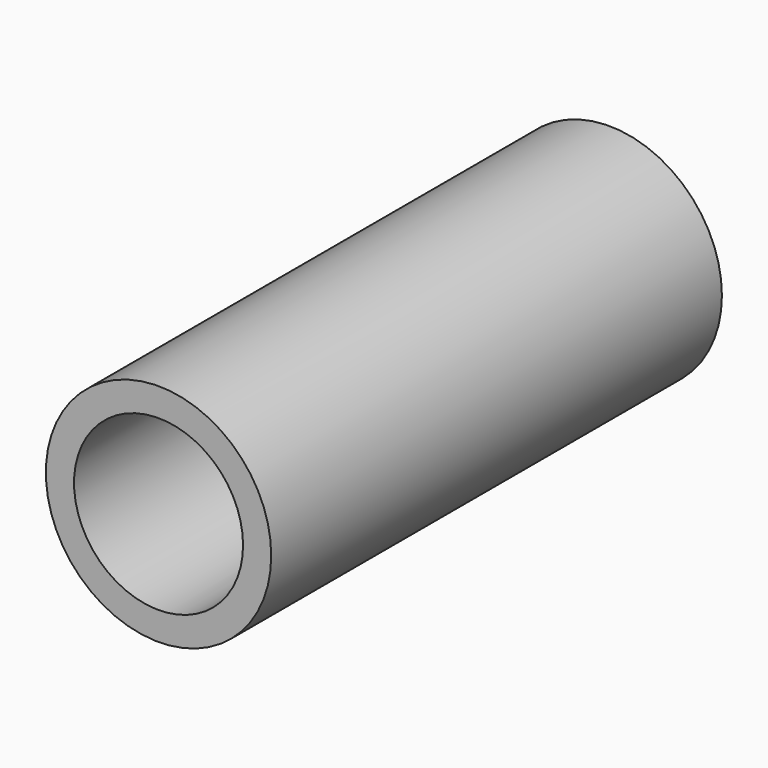
from build123d import *

# Parameters (mm, degrees)
F0_R          = 50.8
F0_R_2        = 38.1
F1_DEPTH      = 254
F2_R          = 2.5
F3_DEPTH      = 63.754
F3_DEPTH_BACK = 25.4


with BuildPart() as f1:
    # F0 (on Front) → F1 (new body)
    with BuildSketch(Plane.XZ):
        Circle(F0_R)
        Circle(F0_R_2, mode=Mode.SUBTRACT)
    extrude(amount=F1_DEPTH)

    # F2 (on Top) → F3 (join, two sides)
    with BuildSketch(Plane.XY) as f3_sk:
        with Locations((0, -27.6374984533)):
            Circle(F2_R)
        with Locations((0, -129.2374984533)):
            Circle(F2_R)
    extrude(amount=-F3_DEPTH)
    extrude(f3_sk.sketch, amount=F3_DEPTH_BACK)


solid = f1.part
